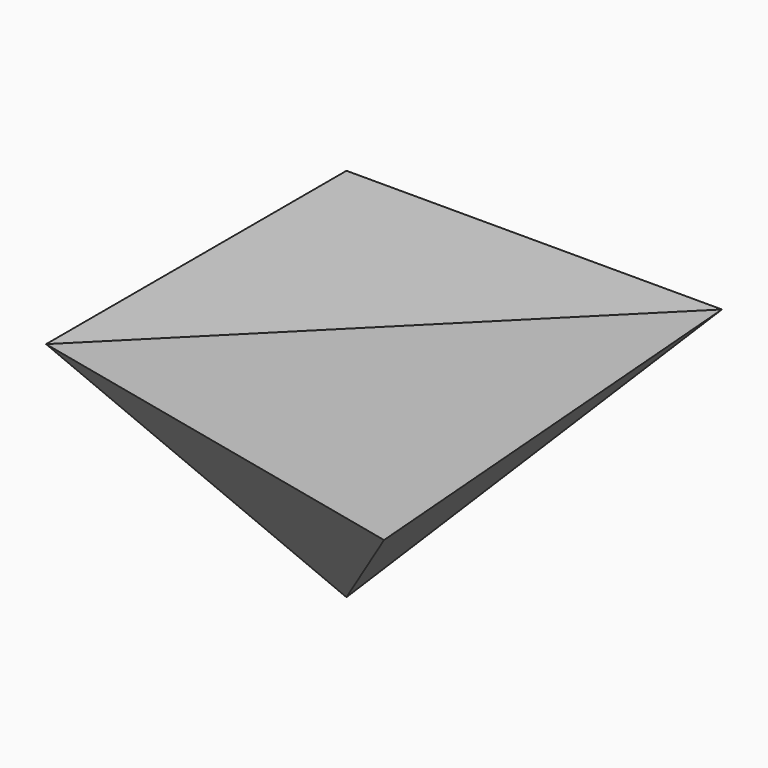
from build123d import *

# Parameters (mm, degrees)
F0_W     = 100
F0_H     = 100
F1_DEPTH = 100
F3_DEPTH = 100
F5_DEPTH = 100
F7_DEPTH = 100


with BuildPart() as f1:
    # F0 (on Front) → F1 (new body)
    with BuildSketch(Plane.XZ):
        with Locations((6.997038, -9.774505)):
            Rectangle(F0_W, F0_H)
    extrude(amount=F1_DEPTH)

    # F2 (on face) → F3 (cut)
    with BuildSketch(Plane.XY.offset(40.225495)):
        Polygon((56.997038, 0), (-43.002962, -100), (56.997038, -100), align=None)
    extrude(amount=-F3_DEPTH, mode=Mode.SUBTRACT)

    # F4 (on face) → F5 (cut)
    with BuildSketch(Plane(origin=(-43.002962, 0, 0), x_dir=(0, -1, 0), z_dir=(-1, 0, 0))):
        Polygon((100, -59.774505), (100, 40.225495), (0, -59.774505), align=None)
    extrude(amount=-F5_DEPTH, mode=Mode.SUBTRACT)

    # F6 (on face) → F7 (cut)
    with BuildSketch(Plane(origin=(0, 0, 0), x_dir=(-1, 0, 0), z_dir=(0, 1, 0))):
        Polygon((-56.997038, -59.774505), (43.002962, -59.774505), (-56.997038, 40.225495), align=None)
    extrude(amount=-F7_DEPTH, mode=Mode.SUBTRACT)


solid = f1.part
